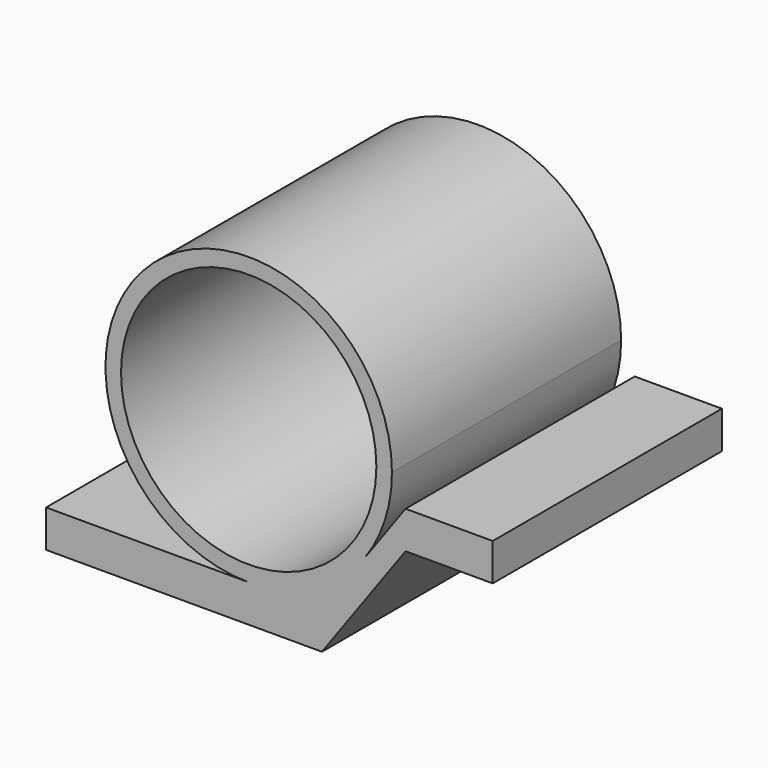
from build123d import *

# Parameters (mm, degrees)
F0_W     = 7
F0_H     = 3
F1_DEPTH = 23
F2_R     = 10.25
F3_DEPTH = 21


with BuildPart() as f1:
    # F0 (on Front) → F1 (new body)
    with BuildSketch(Plane.XZ):
        with BuildLine():
            ThreePointArc((9.32169846, -6.7346817164), (10.9418812891, -3.5391007127), (11.5, 0))
            ThreePointArc((11.5, 0), (-8.1317279744, 8.1317279929), (-2.6e-08, -11.5))
            ThreePointArc((-2.6e-08, -11.5), (5.2345563336, -10.2396005777), (9.32169846, -6.7346817164))
        make_face()
        Polygon((5.8788814894, -11.5), (-2.6e-08, -11.5), (-16.2666305587, -11.5), (-16.2666305587, -14.5), (5.8788814894, -14.5), align=None)
        with BuildLine():
            ThreePointArc((9.32169846, -6.7346817164), (5.2345563336, -10.2396005777), (-2.6e-08, -11.5))
            Line((-2.6e-08, -11.5), (5.8788814894, -11.5))
            Line((5.8788814894, -11.5), (9.32169846, -6.7346817164))
        make_face()
        Polygon((12.5914004307, -2.2089777025), (9.32169846, -6.7346817164), (5.8788814894, -11.5), (5.8788814894, -14.5), (12.5914004307, -5.2089777025), align=None)
        with Locations((16.0914004307, -3.7089777025)):
            Rectangle(F0_W, F0_H)
    extrude(amount=F1_DEPTH)

    # F2 (on face) → F3 (cut)
    with BuildSketch(Plane.XZ.offset(23)):
        Circle(F2_R)
    extrude(amount=-F3_DEPTH, mode=Mode.SUBTRACT)


solid = f1.part
